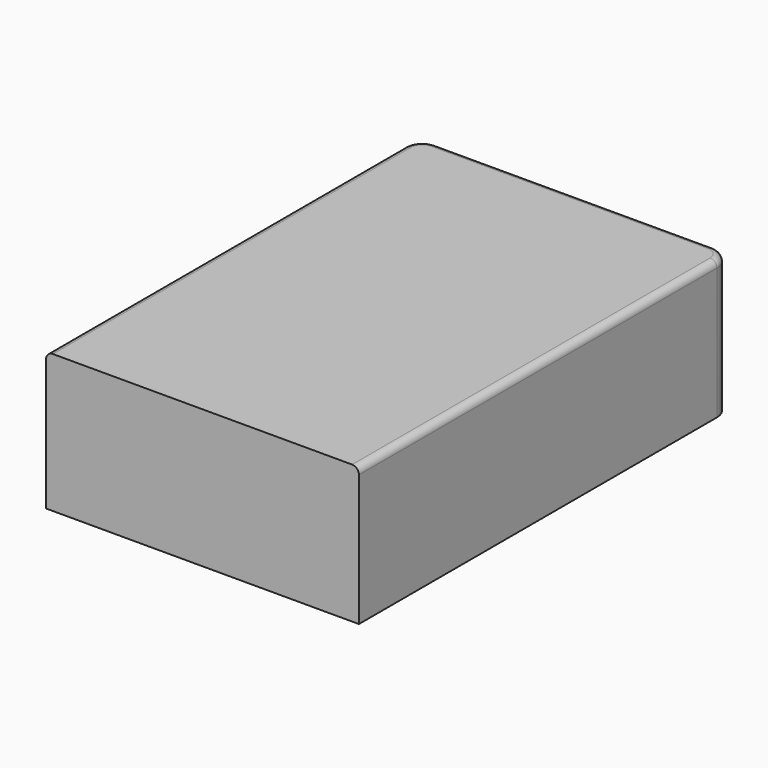
from build123d import *

# Parameters (mm, degrees)
F0_W     = 34.4
F0_H     = 15.2
F0_R     = 1.935
F1_DEPTH = 51.2
F2_DEPTH = 1.5
F3_R     = 2
F4_R     = 0.75


with BuildPart() as f1:
    # F0 (on Front) → F1 (new body)
    with BuildSketch(Plane.XZ):
        with Locations((17.2, 7.6)):
            Rectangle(F0_W, F0_H)
        with Locations((13.795, 5.145)):
            Circle(F0_R, mode=Mode.SUBTRACT)
        with Locations((13.795, 5.145)):
            Circle(F0_R)
    extrude(amount=F1_DEPTH)

    # F0 (on Front) → F2 (join)
    with BuildSketch(Plane.XZ):
        with Locations((13.795, 5.145)):
            Circle(F0_R)
    extrude(amount=-F2_DEPTH)

    # F3
    f3_edges = [f1.edges().sort_by_distance(p)[0] for p in [
        (34.4, 0, 7.6),
        (0, 0, 7.6),
    ]]
    fillet(f3_edges, radius=F3_R)

    # F4
    f4_edges = [f1.edges().sort_by_distance(p)[0] for p in [
        (34.4, -26.6, 15.2),
    ]]
    fillet(f4_edges, radius=F4_R)


solid = f1.part
